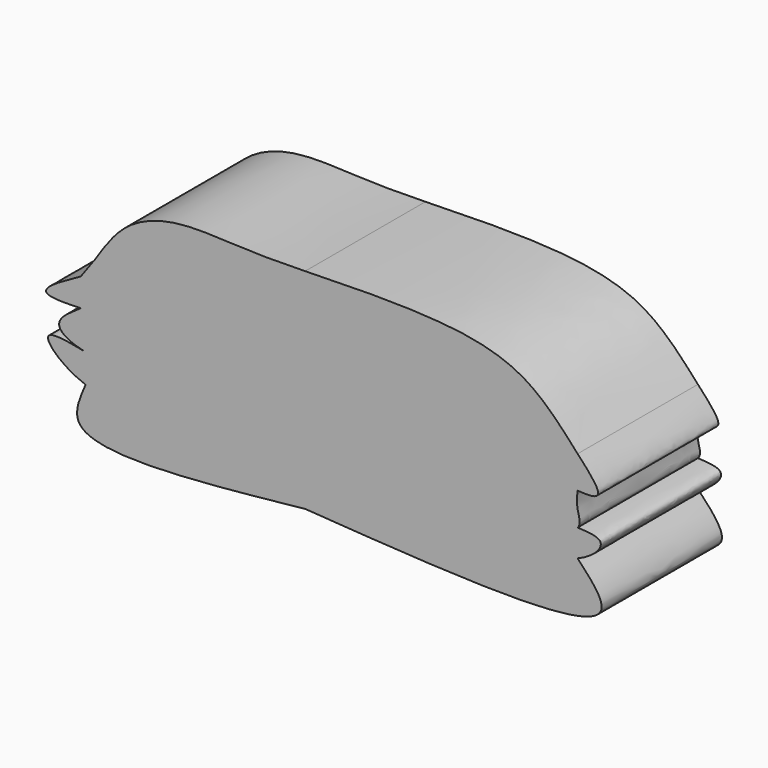
from build123d import *

# Parameters (mm, degrees)
F1_DEPTH = 25.4


with BuildPart() as f1:
    # F0 (on Front) → F1 (new body)
    with BuildSketch(Plane.XZ):
        with BuildLine():
            add(Edge.make_bspline(
                [(0, 59.8932020366), (6.8046888052, 60.0689825623), (19.7158578937, 60.4025073058), (36.6483628476, 58.1646306978), (43.0000749265, 51.0765745905), (46.0247993469, 47.7011986077)],
                knots=[0, 0, 0, 0, 0.3685608501, 0.699304787, 1, 1, 1, 1], degree=3))
            add(Edge.make_bspline(
                [(0, 59.8932020366), (-3.2820922447, 59.8269604973), (-10.1133509432, 59.6890871353), (-22.0173476982, 60.7369003066), (-30.7991840254, 57.2514841881), (-33.928833126, 52.4799753769), (-35.4638919234, 50.1396022737)],
                knots=[0, 0, 0, 0, 0.2553359432, 0.5314493783, 0.7701810233, 1, 1, 1, 1], degree=3))
            add(Edge.make_bspline(
                [(-35.4638919234, 50.1396022737), (-36.2766919037, 49.0220015248), (-37.0894918839, 47.9044007758), (-37.9022918642, 46.7868000269)],
                knots=[0, 0, 0, 0, 4.1457299933, 4.1457299933, 4.1457299933, 4.1457299933], degree=3))
            Line((-37.9022918642, 46.7868000269), (0, 47.7011986077))
            Line((0, 47.7011986077), (46.0247993469, 47.7011986077))
        make_face()
        with BuildLine():
            add(Edge.make_bspline(
                [(46.0247993469, 42.2337048809), (47.6474975897, 42.1004644463), (51.1783905244, 42.1833520204), (48.0824232075, 45.4981420582), (46.0247993469, 47.7011986077)],
                knots=[0.7816454756, 0.7816454756, 0.7816454756, 0.7816454756, 0.8548784811, 1, 1, 1, 1], degree=3))
            Line((46.0247993469, 47.7011986077), (0, 47.7011986077))
            Line((0, 47.7011986077), (-37.9022918642, 46.7868000269))
            add(Edge.make_bspline(
                [(-37.9022918642, 46.7868000269), (-41.0957803729, 45.0420750167), (-46.5017835563, 42.0885685508), (-41.0491159439, 41.9060636229), (-37.9022918642, 42.0624932817)],
                knots=[0, 0, 0, 0, 0.2235405097, 0.3784139832, 0.3784139832, 0.3784139832, 0.3784139832], degree=3))
            add(Edge.make_bspline(
                [(-37.9022918642, 42.0624932817), (-32.4753155177, 42.3322700589), (-13.5107390429, 44.5598575097), (-4.9068389908, 44.0369928576), (0, 43.7388010323)],
                knots=[0.3784139832, 0.3784139832, 0.3784139832, 0.3784139832, 0.6455069811, 1, 1, 1, 1], degree=3))
            add(Edge.make_bspline(
                [(0, 43.7388010323), (2.5133837825, 43.982323659), (8.1524578582, 44.5286955026), (22.4039567749, 39.4814231996), (22.8105180978, 39.3503638017), (29.0138602632, 45.1122643856), (42.0385480595, 42.5610176491), (46.0247993469, 42.2337048809)],
                knots=[0, 0, 0, 0, 0.1764797723, 0.3959532627, 0.4283550307, 0.601744398, 0.7816454756, 0.7816454756, 0.7816454756, 0.7816454756], degree=3))
        make_face()
        with BuildLine():
            add(Edge.make_bspline(
                [(46.0247993469, 36.728400737), (46.7081605925, 37.4219271252), (45.7308267084, 39.5670669402), (45.9266963644, 41.3438086761), (46.0247993469, 42.2337048809)],
                knots=[0.7431719198, 0.7431719198, 0.7431719198, 0.7431719198, 0.8713654724, 1, 1, 1, 1], degree=3))
            add(Edge.make_bspline(
                [(0, 43.7388010323), (2.5133837825, 43.982323659), (8.1524578582, 44.5286955026), (22.4039567749, 39.4814231996), (22.8105180978, 39.3503638017), (29.0138602632, 45.1122643856), (42.0385480595, 42.5610176491), (46.0247993469, 42.2337048809)],
                knots=[0, 0, 0, 0, 0.1764797723, 0.3959532627, 0.4283550307, 0.601744398, 0.7816454756, 0.7816454756, 0.7816454756, 0.7816454756], degree=3))
            add(Edge.make_bspline(
                [(-37.9022918642, 42.0624932817), (-32.4753155177, 42.3322700589), (-13.5107390429, 44.5598575097), (-4.9068389908, 44.0369928576), (0, 43.7388010323)],
                knots=[0.3784139832, 0.3784139832, 0.3784139832, 0.3784139832, 0.6455069811, 1, 1, 1, 1], degree=3))
            add(Edge.make_bspline(
                [(-37.9022918642, 42.0624932817), (-39.7017491155, 40.8681350431), (-43.3321581822, 38.4585145993), (-39.8770844622, 36.3654957362), (-37.0894918839, 35.8140021563)],
                knots=[0, 0, 0, 0, 0.2115525828, 0.4268078134, 0.4268078134, 0.4268078134, 0.4268078134], degree=3))
            add(Edge.make_bspline(
                [(-37.0894918839, 35.8140021563), (-29.6665536307, 34.345458), (-14.8332768151, 36.4513298119), (0, 38.5572016239)],
                knots=[0.4268078134, 0.4268078134, 0.4268078134, 0.4268078134, 1, 1, 1, 1], degree=3))
            add(Edge.make_bspline(
                [(0, 38.5572016239), (6.7437774596, 38.0587615619), (20.2968390974, 37.0570397636), (44.0344124672, 34.7084064329), (46.0247993469, 36.728400737)],
                knots=[0, 0, 0, 0, 0.3697899541, 0.7431719198, 0.7431719198, 0.7431719198, 0.7431719198], degree=3))
        make_face()
        with BuildLine():
            add(Edge.make_bspline(
                [(46.0247993469, 32.1564003825), (48.7775313536, 33.246682209), (51.5715483246, 36.4449040227), (47.7811497513, 36.6386329161), (46.0247993469, 36.728400737)],
                knots=[0.612331806, 0.612331806, 0.612331806, 0.612331806, 0.8203668622, 1, 1, 1, 1], degree=3))
            add(Edge.make_bspline(
                [(0, 38.5572016239), (6.7437774596, 38.0587615619), (20.2968390974, 37.0570397636), (44.0344124672, 34.7084064329), (46.0247993469, 36.728400737)],
                knots=[0, 0, 0, 0, 0.3697899541, 0.7431719198, 0.7431719198, 0.7431719198, 0.7431719198], degree=3))
            add(Edge.make_bspline(
                [(-37.0894918839, 35.8140021563), (-29.6665536307, 34.345458), (-14.8332768151, 36.4513298119), (0, 38.5572016239)],
                knots=[0.4268078134, 0.4268078134, 0.4268078134, 0.4268078134, 1, 1, 1, 1], degree=3))
            add(Edge.make_bspline(
                [(-37.0894918839, 30.9372004122), (-41.1046113962, 32.4042307992), (-46.3045582853, 37.6013010837), (-40.0267988567, 36.3837045733), (-37.0894918839, 35.8140021563)],
                knots=[0.5318142718, 0.5318142718, 0.5318142718, 0.5318142718, 0.7809401237, 1, 1, 1, 1], degree=3))
            add(Edge.make_bspline(
                [(0, 33.3756022155), (-14.2591652939, 30.5905507787), (-28.5183305878, 27.8054993419), (-37.0894918839, 30.9372004122)],
                knots=[0, 0, 0, 0, 0.5318142718, 0.5318142718, 0.5318142718, 0.5318142718], degree=3))
            add(Edge.make_bspline(
                [(0, 33.3756022155), (18.9611945736, 31.1614298097), (37.9223891473, 28.9472574039), (46.0247993469, 32.1564003825)],
                knots=[0, 0, 0, 0, 0.612331806, 0.612331806, 0.612331806, 0.612331806], degree=3))
        make_face()
        with BuildLine():
            add(Edge.make_bspline(
                [(46.0247993469, 32.1564003825), (48.4162228948, 29.6224154714), (56.8810152452, 20.6530063883), (23.7622474956, 22.9140990354), (0, 24.5364010334)],
                knots=[0, 0, 0, 0, 0.282514142, 1, 1, 1, 1], degree=3))
            add(Edge.make_bspline(
                [(0, 33.3756022155), (18.9611945736, 31.1614298097), (37.9223891473, 28.9472574039), (46.0247993469, 32.1564003825)],
                knots=[0, 0, 0, 0, 0.612331806, 0.612331806, 0.612331806, 0.612331806], degree=3))
            add(Edge.make_bspline(
                [(0, 33.3756022155), (-14.2591652939, 30.5905507787), (-28.5183305878, 27.8054993419), (-37.0894918839, 30.9372004122)],
                knots=[0, 0, 0, 0, 0.5318142718, 0.5318142718, 0.5318142718, 0.5318142718], degree=3))
            add(Edge.make_bspline(
                [(0, 24.5364010334), (-17.3384829989, 22.7060054154), (-41.8306911399, 20.1204026), (-38.1612642351, 28.4920079202), (-37.0894918839, 30.9372004122)],
                knots=[0, 0, 0, 0, 0.7079183265, 1, 1, 1, 1], degree=3))
        make_face()
    extrude(amount=F1_DEPTH)


solid = f1.part
